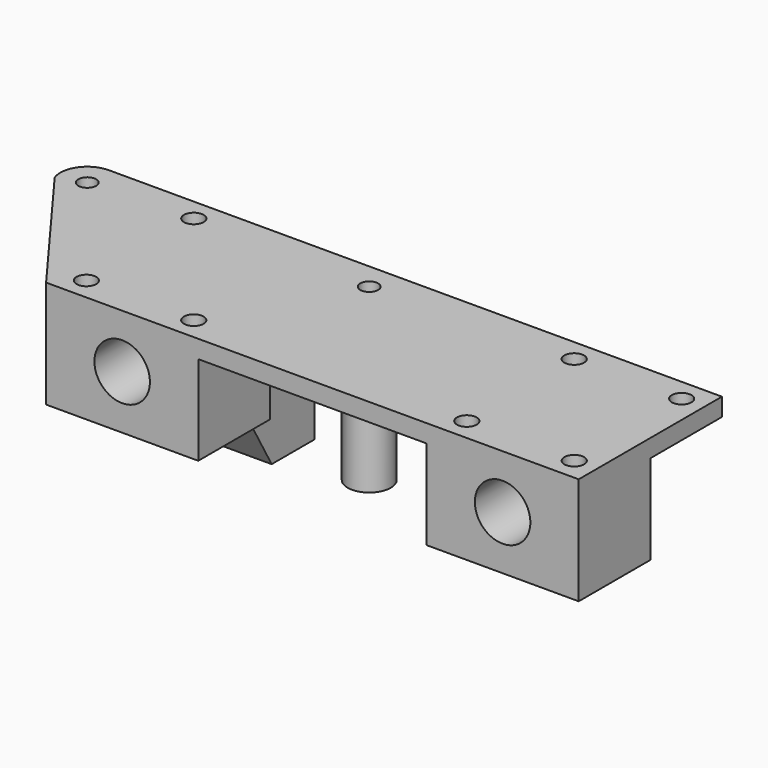
from build123d import *

# Parameters (mm, degrees)
SKETCH056_R     = 1.1
SKETCH056_R_2   = 1
PAD026_DEPTH    = 2
SKETCH072_W     = 17
SKETCH072_H     = 10
SKETCH072_R     = 1.1
PAD031_DEPTH    = 10
SKETCH073_R     = 2.4
SKETCH073_R_2   = 1
SKETCH073_W     = 14
SKETCH073_H     = 10
SKETCH073_R_3   = 1.5
PAD032_DEPTH    = 17
POCKET035_DEPTH = 14
POCKET036_DEPTH = 5
SKETCH076_R     = 3.1
POCKET037_DEPTH = 8


with BuildPart() as part:
    # Sketch056 → Pad026 (new body)
    with BuildSketch(Plane(origin=(-8.5, 115, 6), x_dir=(1, 0, 0), z_dir=(0, 0, -1))):
        with BuildLine():
            Line((0, 0), (59.5, 0))
            Line((59.5, 0), (59.5, 20))
            Line((59.5, 20), (0, 20))
            Line((0, 20), (-11.819078, 4.02606))
            ThreePointArc((-11.819078, 4.02606), (-11.457456, 1.279271), (-9, 0))
            Line((0, 0), (-9, 0))
        make_face()
        with Locations((2.5, 17.5)):
            Circle(SKETCH056_R, mode=Mode.SUBTRACT)
        with Locations((14.5, 17.5)):
            Circle(SKETCH056_R, mode=Mode.SUBTRACT)
        with Locations((45, 17.5)):
            Circle(SKETCH056_R, mode=Mode.SUBTRACT)
        with Locations((45, 2.5)):
            Circle(SKETCH056_R, mode=Mode.SUBTRACT)
        with Locations((57, 17.5)):
            Circle(SKETCH056_R, mode=Mode.SUBTRACT)
        with Locations((57, 2.5)):
            Circle(SKETCH056_R, mode=Mode.SUBTRACT)
        with Locations((2.5, 2.5)):
            Circle(SKETCH056_R, mode=Mode.SUBTRACT)
        with Locations((22.5, 3)):
            Circle(SKETCH056_R_2, mode=Mode.SUBTRACT)
        with Locations((-9, 3)):
            Circle(SKETCH056_R_2, mode=Mode.SUBTRACT)
    extrude(amount=PAD026_DEPTH)

    # Sketch072 → Pad031 (new body)
    with BuildSketch(Plane(origin=(-8.5, 115, 4), x_dir=(1, 0, 0), z_dir=(0, 0, -1))):
        with Locations((8.5, 15)):
            Rectangle(SKETCH072_W, SKETCH072_H)
        with Locations((2.5, 17.5)):
            Circle(SKETCH072_R, mode=Mode.SUBTRACT)
        with Locations((14.5, 17.5)):
            Circle(SKETCH072_R, mode=Mode.SUBTRACT)
        with Locations((51, 15)):
            Rectangle(SKETCH072_W, SKETCH072_H)
        with Locations((45, 17.5)):
            Circle(SKETCH072_R, mode=Mode.SUBTRACT)
        with Locations((57, 17.5)):
            Circle(SKETCH072_R, mode=Mode.SUBTRACT)
    extrude(amount=PAD031_DEPTH)

    # Sketch073 → Pad032 (new body)
    with BuildSketch(Plane(origin=(-8.5, 115, 4), x_dir=(1, 0, 0), z_dir=(0, 0, -1))):
        with Locations((22.5, 3)):
            Circle(SKETCH073_R)
        with Locations((22.5, 3)):
            Circle(SKETCH073_R_2, mode=Mode.SUBTRACT)
        with Locations((-9, 3)):
            Circle(SKETCH073_R)
        with Locations((-9, 3)):
            Circle(SKETCH073_R_2, mode=Mode.SUBTRACT)
        with Locations((7, 5)):
            Rectangle(SKETCH073_W, SKETCH073_H)
        with Locations((11, 3)):
            Circle(SKETCH073_R_3, mode=Mode.SUBTRACT)
        with Locations((3, 3)):
            Circle(SKETCH073_R_3, mode=Mode.SUBTRACT)
    extrude(amount=PAD032_DEPTH)

    # Sketch074 → Pocket035 (cut)
    with BuildSketch(Plane(origin=(-8.5, 115, 6), x_dir=(0, 1, 0), z_dir=(-1, 0, 0))):
        Polygon((-10, 12), (-10, 19), (-6, 19), align=None)
    extrude(amount=-POCKET035_DEPTH, mode=Mode.SUBTRACT)

    # Sketch075 → Pocket036 (cut)
    with BuildSketch(Plane(origin=(-8.5, 115, 6), x_dir=(0, 1, 0), z_dir=(-1, 0, 0))):
        Polygon((0, 2), (0, 12), (-5, 7), (-5, 2), align=None)
    extrude(amount=-POCKET036_DEPTH, mode=Mode.SUBTRACT)

    # Sketch076 → Pocket037 (cut)
    with BuildSketch(Plane(origin=(-8.5, 95, 6), x_dir=(-1, 0, 0), z_dir=(0, -1, 0))):
        with Locations((-8.5, 6)):
            Circle(SKETCH076_R)
        with Locations((-51, 6)):
            Circle(SKETCH076_R)
    extrude(amount=-POCKET037_DEPTH, mode=Mode.SUBTRACT)


solid = part.part
